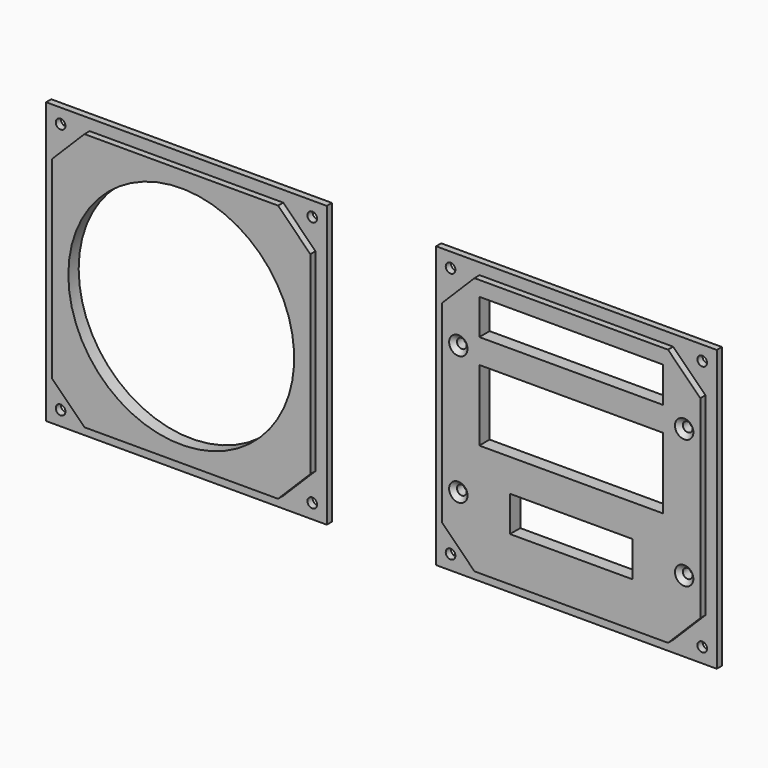
from build123d import *

# Parameters (mm, degrees)
F2_DEPTH        = 2
F3_W            = 87
F3_H            = 87
F4_DEPTH        = 2
F6_D            = 3
F7_D            = 70
F9_DEPTH        = 2
F10_W           = 87
F10_H           = 87
F11_DEPTH       = 2
F13_D           = 3
F14_D           = 3
F14_CSINK_D     = 5.7
F14_CSINK_ANGLE = 90
F15_W           = 57
F15_H           = 11
F15_H_2         = 22
F15_W_2         = 38
F16_DEPTH       = 5


with BuildPart() as f2:
    # F1 (on offset) → F2 (new body)
    with BuildSketch(Plane.XZ.offset(5)):
        Polygon((-50.25688, 233.304736), (-50.25688, 263.304736), (-60.25688, 273.304736), (-90.25688, 273.304736), (-120.25688, 273.304736), (-130.25688, 263.304736), (-130.25688, 233.304736), (-130.25688, 203.304736), (-120.25688, 193.304736), (-90.25688, 193.304736), (-60.25688, 193.304736), (-50.25688, 203.304736), align=None)
    extrude(amount=F2_DEPTH)

    # F3 (on face) → F4 (join)
    with BuildSketch(Plane(origin=(0, -5, 0), x_dir=(-1, 0, 0), z_dir=(0, 1, 0))):
        with Locations((90.25688, 233.304736)):
            Rectangle(F3_W, F3_H)
    extrude(amount=F4_DEPTH)

    # F6 (through all)
    with Locations(Plane.XZ.offset(7)):
        with Locations((-129.25688, 272.304736), (-51.25688, 272.304736), (-51.25688, 194.304736), (-129.25688, 194.304736)):
            Hole(F6_D / 2)

    # F7 (through all)
    with Locations(Plane.XZ.offset(7)):
        with Locations((-90.25688, 233.304736)):
            Hole(F7_D / 2)


with BuildPart() as f9:
    # F8 (on offset) → F9 (new body)
    with BuildSketch(Plane.XZ.offset(5)):
        Polygon((70.617062, 233.304736), (70.617062, 263.304736), (60.617062, 273.304736), (30.617062, 273.304736), (0.617062, 273.304736), (-9.382938, 263.304736), (-9.382938, 233.304736), (-9.382938, 203.304736), (0.617062, 193.304736), (30.617062, 193.304736), (60.617062, 193.304736), (70.617062, 203.304736), align=None)
    extrude(amount=F9_DEPTH)

    # F10 (on face) → F11 (join)
    with BuildSketch(Plane(origin=(0, -5, 0), x_dir=(-1, 0, 0), z_dir=(0, 1, 0))):
        with Locations((-30.617062, 233.304736)):
            Rectangle(F10_W, F10_H)
    extrude(amount=F11_DEPTH)

    # F13 (through all)
    with Locations(Plane.XZ.offset(7)):
        with Locations((-8.382938, 272.304736), (-8.382938, 194.304736), (69.617062, 194.304736), (69.617062, 272.304736)):
            Hole(F13_D / 2)

    # F14 (through all)
    with Locations(Plane.XZ.offset(7)):
        with Locations((-4.382938, 253.304736), (-4.382938, 213.304736), (65.617062, 213.304736), (65.617062, 253.304736)):
            CounterSinkHole(F14_D / 2, F14_CSINK_D / 2, counter_sink_angle=F14_CSINK_ANGLE)

    # F15 (on face) → F16 (cut)
    with BuildSketch(Plane.XZ.offset(7)):
        with Locations((30.617062, 263.218444)):
            Rectangle(F15_W, F15_H)
        with Locations((30.617062, 239.115536)):
            Rectangle(F15_W, F15_H_2)
        with Locations((30.617062, 212.557742)):
            Rectangle(F15_W_2, F15_H)
    extrude(amount=-F16_DEPTH, mode=Mode.SUBTRACT)


solid = Compound([f2.part, f9.part])
